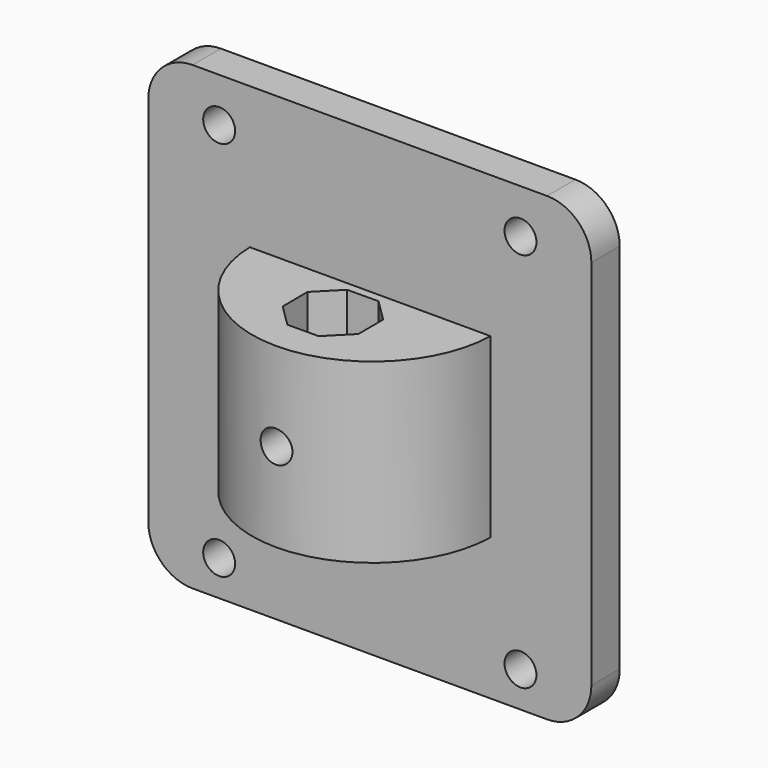
from build123d import *

# Parameters (mm, degrees)
CYLINDER121_R          = 1.8
CYLINDER121_DEPTH      = 34
CYLINDER121_ROLL_ANGLE = 90
PAD057_DEPTH           = 20
CYLINDER118_R          = 1.8
CYLINDER118_DEPTH      = 34
CYLINDER118_ROLL_ANGLE = 90
CYLINDER117_R          = 1.8
CYLINDER117_DEPTH      = 34
CYLINDER117_ROLL_ANGLE = 90
CYLINDER120_R          = 1.8
CYLINDER120_DEPTH      = 34
CYLINDER120_ROLL_ANGLE = 90
CYLINDER119_R          = 1.8
CYLINDER119_DEPTH      = 34
CYLINDER119_ROLL_ANGLE = 90
BOX059_W               = 50
BOX059_H               = 4
BOX059_DEPTH           = 52
FILLET054_R            = 5


with BuildPart() as cilindro075:
    # Cylinder121 → Cylinder121 (new body)
    with BuildSketch(Plane.XY):
        Circle(CYLINDER121_R)
    extrude(amount=CYLINDER121_DEPTH)


with BuildPart() as cilindro075_1:
    # Cylinder121 roll: moved
    add(cilindro075.part.rotate(Axis((0, 0, 0), (1, 0, 0)), CYLINDER121_ROLL_ANGLE))


with BuildPart() as cilindro075_2:
    # Cylinder121 placement: moved
    add(cilindro075_1.part.moved(Location((33, -26, 85))))


with BuildPart() as cut139:
    # Sketch064 → Pad057 (new body)
    with BuildSketch(Plane(origin=(2, 0, 75), x_dir=(1, 0, 0), z_dir=(0, 0, 1))):
        with BuildLine():
            ThreePointArc((17.453972, -22.45432), (31.040886, -36.073109), (44.6278, -22.45432))
            Line((17.453972, -22.45432), (44.6278, -22.45432))
        make_face()
        Polygon((26.782288, -29.812588), (29.287536, -32.286525), (32.808351, -32.264384), (35.282288, -29.759136), (35.260147, -26.238321), (32.754899, -23.764384), (29.234084, -23.786525), (26.760147, -26.291773), align=None, mode=Mode.SUBTRACT)
    extrude(amount=PAD057_DEPTH)

    # Cut139: cut Cilindro075
    add(cilindro075_2.part, mode=Mode.SUBTRACT)


with BuildPart() as cut139_1:
    # Cut139 placement: moved
    add(cut139.part.moved(Location((0, -0.2, 0))))


with BuildPart() as cilindro072:
    # Cylinder118 → Cylinder118 (new body)
    with BuildSketch(Plane.XY):
        Circle(CYLINDER118_R)
    extrude(amount=CYLINDER118_DEPTH)


with BuildPart() as cilindro072_1:
    # Cylinder118 roll: moved
    add(cilindro072.part.rotate(Axis((0, 0, 0), (1, 0, 0)), CYLINDER118_ROLL_ANGLE))


with BuildPart() as cilindro072_2:
    # Cylinder118 placement: moved
    add(cilindro072_1.part.moved(Location((16, -10, 63))))


with BuildPart() as fusion066:
    # Cylinder117 → Cylinder117 (new body)
    with BuildSketch(Plane.XY):
        Circle(CYLINDER117_R)
    extrude(amount=CYLINDER117_DEPTH)


with BuildPart() as fusion066_1:
    # Cylinder117 roll: moved
    add(fusion066.part.rotate(Axis((0, 0, 0), (1, 0, 0)), CYLINDER117_ROLL_ANGLE))


with BuildPart() as fusion066_2:
    # Cylinder117 placement: moved
    add(fusion066_1.part.moved(Location((50, -10, 63))))

    # Fusion066: union Cilindro072
    add(cilindro072_2.part)


with BuildPart() as cilindro074:
    # Cylinder120 → Cylinder120 (new body)
    with BuildSketch(Plane.XY):
        Circle(CYLINDER120_R)
    extrude(amount=CYLINDER120_DEPTH)


with BuildPart() as cilindro074_1:
    # Cylinder120 roll: moved
    add(cilindro074.part.rotate(Axis((0, 0, 0), (1, 0, 0)), CYLINDER120_ROLL_ANGLE))


with BuildPart() as cilindro074_2:
    # Cylinder120 placement: moved
    add(cilindro074_1.part.moved(Location((16, -10, 63))))


with BuildPart() as fusion068:
    # Cylinder119 → Cylinder119 (new body)
    with BuildSketch(Plane.XY):
        Circle(CYLINDER119_R)
    extrude(amount=CYLINDER119_DEPTH)


with BuildPart() as fusion068_1:
    # Cylinder119 roll: moved
    add(fusion068.part.rotate(Axis((0, 0, 0), (1, 0, 0)), CYLINDER119_ROLL_ANGLE))


with BuildPart() as fusion068_2:
    # Cylinder119 placement: moved
    add(fusion068_1.part.moved(Location((50, -10, 63))))

    # Fusion067: union Cilindro074
    add(cilindro074_2.part)


with BuildPart() as fusion068_3:
    # Fusion067 placement: moved
    add(fusion068_2.part.moved(Location((0, 0, 43))))

    # Fusion068: union Fusion066
    add(fusion066_2.part)


with BuildPart() as lapis_holder:
    # Box059 → Box059 (new body)
    with BuildSketch(Plane(origin=(8, -23, 59), x_dir=(1, 0, 0), z_dir=(0, 0, 1))):
        with Locations((25, 2)):
            Rectangle(BOX059_W, BOX059_H)
    extrude(amount=BOX059_DEPTH)

    # Cut138: cut Fusion068
    add(fusion068_3.part, mode=Mode.SUBTRACT)

    # Fusion069: union Cut139
    add(cut139_1.part)

    # Fillet054
    fillet054_edges = [lapis_holder.edges().sort_by_distance(p)[0] for p in [
        (8, -21, 111),
        (8, -21, 59),
        (58, -21, 111),
        (58, -21, 59),
    ]]
    fillet(fillet054_edges, radius=FILLET054_R)


solid = lapis_holder.part
